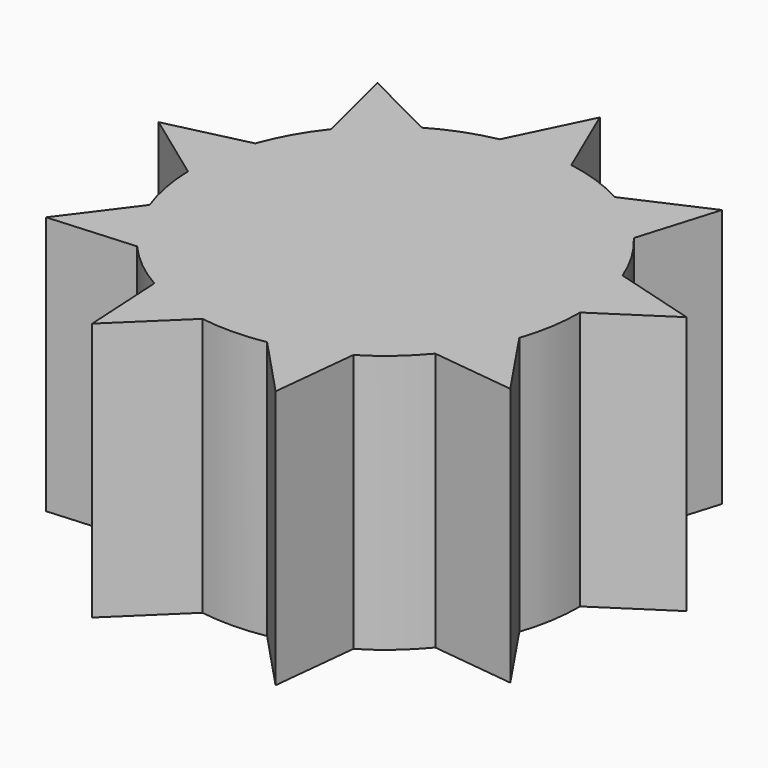
from build123d import *

# Parameters (mm, degrees)
F1_DEPTH = 50.8


with BuildPart() as f1:
    # F0 (on Top) → F1 (new body)
    with BuildSketch(Plane.XY):
        with BuildLine():
            ThreePointArc((36.0783087311, -12.2460458558), (37.5911795682, -6.2059019225), (38.1, 0))
            ThreePointArc((38.1, 0), (38.0999179794, 0.0790567189), (38.0996719179, 0.1581130974))
            Line((38.0996719179, 0.1581130974), (35.5091944644, 13.8096744528))
            ThreePointArc((35.5091944644, 13.8096744528), (32.7452469176, 19.4771354235), (29.0844088174, 24.6111187016))
            Line((29.0844088174, 24.6111187016), (18.324933467, 33.4036946075))
            ThreePointArc((18.324933467, 33.4036946075), (12.5646531174, 35.9685903538), (6.460227594, 37.5483083432))
            Line((6.460227594, 37.5483083432), (-7.4337675585, 37.3677548146))
            ThreePointArc((-7.4337675585, 37.3677548146), (-13.495081517, 35.6299421112), (-19.186765918, 32.916227208))
            Line((-19.186765918, 32.916227208), (-29.7141261263, 23.8470272477))
            ThreePointArc((-29.7141261263, 23.8470272477), (-33.2403175285, 18.6196479721), (-35.8560584198, 12.8822775391))
            Line((-35.8560584198, 12.8822775391), (-38.0909148438, -0.8319893987))
            ThreePointArc((-38.0909148438, -0.8319893987), (-37.4320395434, -7.1029863875), (-35.7479026913, -13.1794329609))
            Line((-35.7479026913, -13.1794329609), (-28.6445411726, -25.1217089588))
            ThreePointArc((-28.6445411726, -25.1217089588), (-24.1088942452, -29.5020544755), (-18.9129059999, -33.0743403054))
            Line((-18.9129059999, -33.0743403054), (-5.7950683381, -37.6567017005))
            ThreePointArc((-5.7950683381, -37.6567017005), (0.4950706109, -38.0967833956), (6.7716496024, -37.4933962407))
            Line((6.7716496024, -37.4933962407), (19.7659813769, -32.5717052088))
            ThreePointArc((19.7659813769, -32.5717052088), (24.867386426, -28.8656039663), (29.2876750973, -24.3688753823))
            Line((29.2876750973, -24.3688753823), (36.0783087311, -12.2460458558))
        make_face()
        with BuildLine():
            Line((35.5091944644, 13.8096744528), (38.0996719179, 0.1581130974))
            ThreePointArc((38.0996719179, 0.1581130974), (37.4320395434, 7.1029863875), (35.5091944644, 13.8096744528))
        make_face()
        with BuildLine():
            ThreePointArc((35.5091944644, 13.8096744528), (37.4320395434, 7.1029863875), (38.0996719179, 0.1581130974))
            Line((38.0996719179, 0.1581130974), (51.8147225092, 9.1363335763))
            Line((51.8147225092, 9.1363335763), (35.5091944644, 13.8096744528))
        make_face()
        with BuildLine():
            Line((45.5651022708, -26.3070240617), (36.0783087311, -12.2460458558))
            ThreePointArc((36.0783087311, -12.2460458558), (33.2403175285, -18.6196479721), (29.2876750973, -24.3688753823))
            Line((29.2876750973, -24.3688753823), (45.5651022708, -26.3070240617))
        make_face()
        with BuildLine():
            ThreePointArc((29.2876750973, -24.3688753823), (33.2403175285, -18.6196479721), (36.0783087311, -12.2460458558))
            Line((36.0783087311, -12.2460458558), (29.2876750973, -24.3688753823))
        make_face()
        with BuildLine():
            Line((18.324933467, 33.4036946075), (29.0844088174, 24.6111187016))
            ThreePointArc((29.0844088174, 24.6111187016), (24.1088942452, 29.5020544755), (18.324933467, 33.4036946075))
        make_face()
        with BuildLine():
            ThreePointArc((18.324933467, 33.4036946075), (24.1088942452, 29.5020544755), (29.0844088174, 24.6111187016))
            Line((29.0844088174, 24.6111187016), (33.8196582291, 40.3046991949))
            Line((33.8196582291, 40.3046991949), (18.324933467, 33.4036946075))
        make_face()
        with BuildLine():
            Line((17.9950642801, -49.4410327712), (19.7659813769, -32.5717052088))
            ThreePointArc((19.7659813769, -32.5717052088), (13.495081517, -35.6299421112), (6.7716496024, -37.4933962407))
            Line((6.7716496024, -37.4933962407), (17.9950642801, -49.4410327712))
        make_face()
        with BuildLine():
            ThreePointArc((6.7716496024, -37.4933962407), (13.495081517, -35.6299421112), (19.7659813769, -32.5717052088))
            Line((19.7659813769, -32.5717052088), (6.7716496024, -37.4933962407))
        make_face()
        with BuildLine():
            Line((-7.4337675585, 37.3677548146), (6.460227594, 37.5483083432))
            ThreePointArc((6.460227594, 37.5483083432), (-0.4950706109, 38.0967833956), (-7.4337675585, 37.3677548146))
        make_face()
        with BuildLine():
            ThreePointArc((-7.4337675585, 37.3677548146), (-0.4950706109, 38.0967833956), (6.460227594, 37.5483083432))
            Line((6.460227594, 37.5483083432), (0, 52.6140481234))
            Line((0, 52.6140481234), (-7.4337675585, 37.3677548146))
        make_face()
        with BuildLine():
            Line((-17.9950642801, -49.4410327712), (-5.7950683381, -37.6567017005))
            ThreePointArc((-5.7950683381, -37.6567017005), (-12.5646531174, -35.9685903538), (-18.9129059999, -33.0743403054))
            Line((-18.9129059999, -33.0743403054), (-17.9950642801, -49.4410327712))
        make_face()
        with BuildLine():
            ThreePointArc((-18.9129059999, -33.0743403054), (-12.5646531174, -35.9685903538), (-5.7950683381, -37.6567017005))
            Line((-5.7950683381, -37.6567017005), (-18.9129059999, -33.0743403054))
        make_face()
        with BuildLine():
            Line((-29.7141261263, 23.8470272477), (-19.186765918, 32.916227208))
            ThreePointArc((-19.186765918, 32.916227208), (-24.867386426, 28.8656039663), (-29.7141261263, 23.8470272477))
        make_face()
        with BuildLine():
            ThreePointArc((-29.7141261263, 23.8470272477), (-24.867386426, 28.8656039663), (-19.186765918, 32.916227208))
            Line((-19.186765918, 32.916227208), (-33.8196582291, 40.3046991949))
            Line((-33.8196582291, 40.3046991949), (-29.7141261263, 23.8470272477))
        make_face()
        with BuildLine():
            Line((-45.5651022708, -26.3070240617), (-28.6445411726, -25.1217089588))
            ThreePointArc((-28.6445411726, -25.1217089588), (-32.7452469176, -19.4771354235), (-35.7479026913, -13.1794329609))
            Line((-35.7479026913, -13.1794329609), (-45.5651022708, -26.3070240617))
        make_face()
        with BuildLine():
            ThreePointArc((-35.7479026913, -13.1794329609), (-32.7452469176, -19.4771354235), (-28.6445411726, -25.1217089588))
            Line((-28.6445411726, -25.1217089588), (-35.7479026913, -13.1794329609))
        make_face()
        with BuildLine():
            Line((-38.0909148438, -0.8319893987), (-35.8560584198, 12.8822775391))
            ThreePointArc((-35.8560584198, 12.8822775391), (-37.6039757622, 6.1278876357), (-38.0909148438, -0.8319893987))
        make_face()
        with BuildLine():
            ThreePointArc((-38.0909148438, -0.8319893987), (-37.6039757622, 6.1278876357), (-35.8560584198, 12.8822775391))
            Line((-35.8560584198, 12.8822775391), (-51.8147225092, 9.1363335763))
            Line((-51.8147225092, 9.1363335763), (-38.0909148438, -0.8319893987))
        make_face()
    extrude(amount=F1_DEPTH)


solid = f1.part
